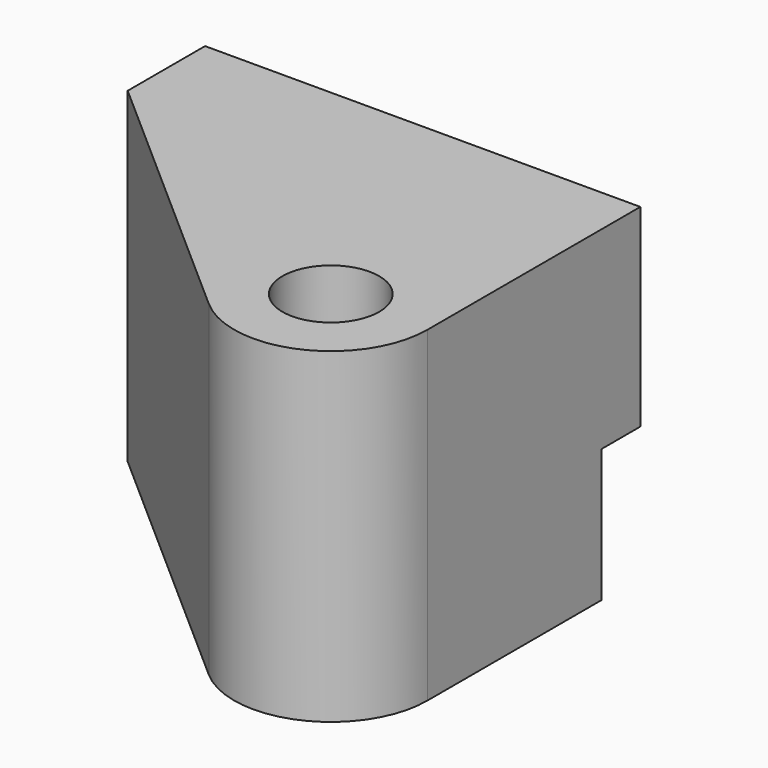
from build123d import *

# Parameters (mm, degrees)
F0_W     = 37
F0_H     = 10
F0_W_2   = 6
F0_R     = 10
F1_DEPTH = 67.5
F2_W     = 10
F2_H     = 27.5
F3_DEPTH = 250


with BuildPart() as f1:
    # F0 (on Top) → F1 (new body)
    with BuildSketch(Plane.XY):
        Polygon((45, 27.5), (45, 37.5), (-45, 37.5), (-45, 27.5), (-8, 27.5), (-2, 27.5), align=None)
        with Locations((-26.5, 22.5)):
            Rectangle(F0_W, F0_H)
        with Locations((-5, 22.5)):
            Rectangle(F0_W_2, F0_H)
        Polygon((45, 17.5), (45, 27.5), (-2, 27.5), (-2, 17.5), (5, 17.5), align=None)
        with BuildLine():
            Line((-8, 17.5), (-45, 17.5))
            Line((-45, 17.5), (11.781288, -32.508853))
            ThreePointArc((11.781288, -32.508853), (6.773999, -25.734858), (5, -17.5))
            Line((5, -17.5), (5, 17.5))
            Line((5, 17.5), (-2, 17.5))
            Line((-2, 17.5), (-8, 17.5))
        make_face()
        with BuildLine():
            Line((45, -17.5), (45, 17.5))
            Line((45, 17.5), (5, 17.5))
            Line((5, 17.5), (5, -17.5))
            ThreePointArc((5, -17.5), (25, 2.5), (45, -17.5))
        make_face()
        with BuildLine():
            ThreePointArc((11.781288, -32.508853), (33.234858, -35.726001), (45, -17.5))
            ThreePointArc((45, -17.5), (25, 2.5), (5, -17.5))
            ThreePointArc((5, -17.5), (6.773999, -25.734858), (11.781288, -32.508853))
        make_face()
        with Locations((25, -17.5)):
            Circle(F0_R, mode=Mode.SUBTRACT)
    extrude(amount=F1_DEPTH)

    # F2 (on face) → F3 (cut)
    with BuildSketch(Plane(origin=(-45, 0, 0), x_dir=(0, -1, 0), z_dir=(-1, 0, 0))):
        with Locations((-32.5, 13.75)):
            Rectangle(F2_W, F2_H)
    extrude(amount=-F3_DEPTH, mode=Mode.SUBTRACT)


solid = f1.part
